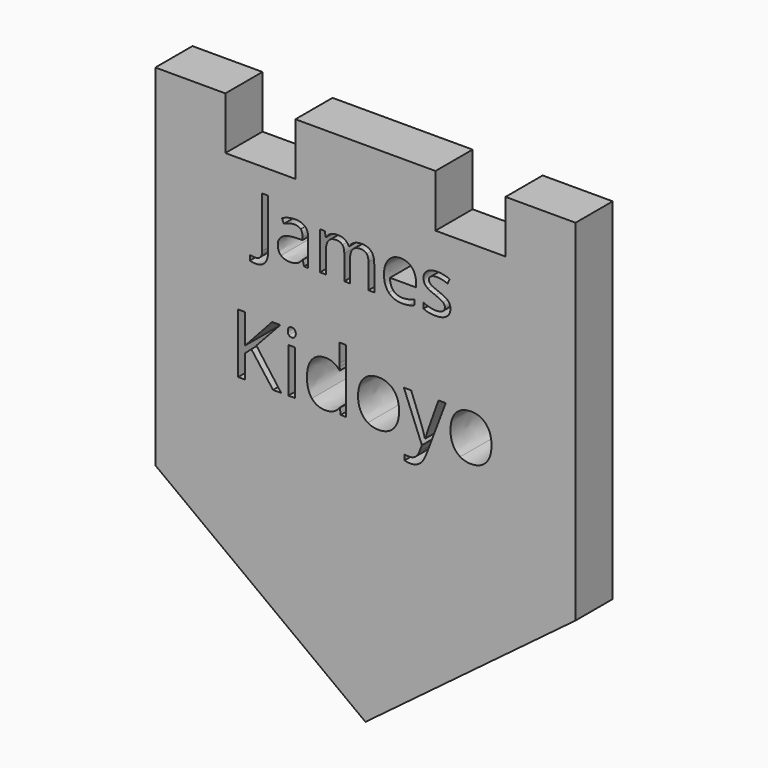
from build123d import *

# Parameters (mm, degrees)
F0_W     = 0.9811276159
F0_H     = 6.4746860971
F1_DEPTH = 6.731


with BuildPart() as f1:
    # F0 (on Front) → F1 (new body)
    with BuildSketch(Plane.XZ):
        Polygon((10.16, 50.8), (0, 50.8), (-10.16, 50.8), (-10.16, 43.18), (-20.32, 43.18), (-20.32, 50.8), (-30.48, 50.8), (-30.48, 0), (0, -22.86), (30.48, 0), (30.48, 50.8), (20.32, 50.8), (20.32, 43.18), (10.16, 43.18), align=None)
        Polygon((-15.8237755568, 20.0595629722), (-12.220636374, 15.174719505), (-13.4021484355, 15.174719505), (-16.5496965674, 19.3638886703), (-17.4552074113, 18.5604604685), (-17.4552074113, 15.174719505), (-18.4590200588, 15.174719505), (-18.4590200588, 23.8120452796), (-17.4552074113, 23.8120452796), (-17.4552074113, 19.5283551493), (-13.538258625, 23.8120452796), (-12.3510753056, 23.8120452796), align=None, mode=Mode.SUBTRACT)
        with Locations((-10.6903419519, 18.4120625536)):
            Rectangle(F0_W, F0_H, mode=Mode.SUBTRACT)
        with BuildLine():
            Line((-3.5833105994, 15.174719505), (-3.713749531, 16.042421963))
            Line((-3.713749531, 16.042421963), (-3.7666812714, 16.042421963))
            add(Edge.make_bspline(
                [(-3.7666812714, 16.042421963), (-4.4453417995, 15.0556230892), (-5.7988820172, 15.0556230892)],
                knots=[0, 0, 0, 1, 1, 1], degree=2))
            add(Edge.make_bspline(
                [(-5.7988820172, 15.0556230892), (-7.0692437857, 15.0556230892), (-7.7753153937, 15.9242707568)],
                knots=[0, 0, 0, 1, 1, 1], degree=2))
            add(Edge.make_bspline(
                [(-7.7753153937, 15.9242707568), (-8.4813870017, 16.7929184245), (-8.4813870017, 18.3941035702)],
                knots=[0, 0, 0, 1, 1, 1], degree=2))
            add(Edge.make_bspline(
                [(-8.4813870017, 18.3941035702), (-8.4813870017, 19.995288716), (-7.7724797648, 20.881895367)],
                knots=[0, 0, 0, 1, 1, 1], degree=2))
            add(Edge.make_bspline(
                [(-7.7724797648, 20.881895367), (-7.0635725278, 21.7685020179), (-5.7988820172, 21.7685020179)],
                knots=[0, 0, 0, 1, 1, 1], degree=2))
            add(Edge.make_bspline(
                [(-5.7988820172, 21.7685020179), (-4.4812597662, 21.7685020179), (-3.7780237872, 20.8100594336)],
                knots=[0, 0, 0, 1, 1, 1], degree=2))
            Line((-3.7780237872, 20.8100594336), (-3.7005165959, 20.8100594336))
            Line((-3.7005165959, 20.8100594336), (-3.7421058205, 21.2769930004))
            Line((-3.7421058205, 21.2769930004), (-3.7666812714, 21.7325840513))
            Line((-3.7666812714, 21.7325840513), (-3.7666812714, 24.3678285533))
            Line((-3.7666812714, 24.3678285533), (-2.7855536555, 24.3678285533))
            Line((-2.7855536555, 24.3678285533), (-2.7855536555, 15.174719505))
            Line((-2.7855536555, 15.174719505), (-3.5833105994, 15.174719505))
        make_face(mode=Mode.SUBTRACT)
        with BuildLine():
            add(Edge.make_bspline(
                [(-11.0986725203, 22.9103152742), (-11.264084209, 23.0728913339), (-11.264084209, 23.4037147111)],
                knots=[0, 0, 0, 1, 1, 1], degree=2))
            add(Edge.make_bspline(
                [(-11.264084209, 23.4037147111), (-11.264084209, 23.7402093462), (-11.0986725203, 23.897114148)],
                knots=[0, 0, 0, 1, 1, 1], degree=2))
            add(Edge.make_bspline(
                [(-11.0986725203, 23.897114148), (-10.9332608317, 24.0540189498), (-10.6837254843, 24.0540189498)],
                knots=[0, 0, 0, 1, 1, 1], degree=2))
            add(Edge.make_bspline(
                [(-10.6837254843, 24.0540189498), (-10.447423072, 24.0540189498), (-10.2763401255, 23.894278519)],
                knots=[0, 0, 0, 1, 1, 1], degree=2))
            add(Edge.make_bspline(
                [(-10.2763401255, 23.894278519), (-10.105257179, 23.7345380883), (-10.105257179, 23.4037147111)],
                knots=[0, 0, 0, 1, 1, 1], degree=2))
            add(Edge.make_bspline(
                [(-10.105257179, 23.4037147111), (-10.105257179, 23.0728913339), (-10.2763401255, 22.9103152742)],
                knots=[0, 0, 0, 1, 1, 1], degree=2))
            add(Edge.make_bspline(
                [(-10.2763401255, 22.9103152742), (-10.447423072, 22.7477392145), (-10.6837254843, 22.7477392145)],
                knots=[0, 0, 0, 1, 1, 1], degree=2))
            add(Edge.make_bspline(
                [(-10.6837254843, 22.7477392145), (-10.9332608317, 22.7477392145), (-11.0986725203, 22.9103152742)],
                knots=[0, 0, 0, 1, 1, 1], degree=2))
        make_face(mode=Mode.SUBTRACT)
        with BuildLine():
            add(Edge.make_bspline(
                [(-14.6120612553, 31.0013102389), (-15.0947213624, 30.4760151557), (-16.0005134967, 30.4760151557)],
                knots=[0, 0, 0, 1, 1, 1], degree=2))
            add(Edge.make_bspline(
                [(-16.0005134967, 30.4760151557), (-16.4719115346, 30.4760151557), (-16.7438100616, 30.6111599857)],
                knots=[0, 0, 0, 1, 1, 1], degree=2))
            Line((-16.7438100616, 30.6111599857), (-16.7438100616, 31.3399767474))
            add(Edge.make_bspline(
                [(-16.7438100616, 31.3399767474), (-16.3866415824, 31.2402269919), (-16.0005134967, 31.2402269919)],
                knots=[0, 0, 0, 1, 1, 1], degree=2))
            add(Edge.make_bspline(
                [(-16.0005134967, 31.2402269919), (-15.5017647194, 31.2402269919), (-15.2427371286, 31.5418895589)],
                knots=[0, 0, 0, 1, 1, 1], degree=2))
            add(Edge.make_bspline(
                [(-15.2427371286, 31.5418895589), (-14.9837095378, 31.8435521258), (-14.9837095378, 32.4114821851)],
                knots=[0, 0, 0, 1, 1, 1], degree=2))
            Line((-14.9837095378, 32.4114821851), (-14.9837095378, 39.762395616))
            Line((-14.9837095378, 39.762395616), (-14.1294011482, 39.762395616))
            Line((-14.1294011482, 39.762395616), (-14.1294011482, 32.4822723342))
            add(Edge.make_bspline(
                [(-14.1294011482, 32.4822723342), (-14.1294011482, 31.5266053221), (-14.6120612553, 31.0013102389)],
                knots=[0, 0, 0, 1, 1, 1], degree=2))
        make_face(mode=Mode.SUBTRACT)
        with BuildLine():
            Line((-8.2972581877, 32.4114821851), (-8.9166719918, 32.4114821851))
            Line((-8.9166719918, 32.4114821851), (-9.0823852952, 33.1966092926))
            Line((-9.0823852952, 33.1966092926), (-9.1226069708, 33.1966092926))
            add(Edge.make_bspline(
                [(-9.1226069708, 33.1966092926), (-9.5344769288, 32.678554111), (-9.9439335863, 32.4943388368)],
                knots=[0, 0, 0, 1, 1, 1], degree=2))
            add(Edge.make_bspline(
                [(-9.9439335863, 32.4943388368), (-10.3533902438, 32.3101235626), (-10.9679774469, 32.3101235626)],
                knots=[0, 0, 0, 1, 1, 1], degree=2))
            add(Edge.make_bspline(
                [(-10.9679774469, 32.3101235626), (-11.7868907619, 32.3101235626), (-12.2518533317, 32.7332555898)],
                knots=[0, 0, 0, 1, 1, 1], degree=2))
            add(Edge.make_bspline(
                [(-12.2518533317, 32.7332555898), (-12.7168159015, 33.1563876171), (-12.7168159015, 33.9350792565)],
                knots=[0, 0, 0, 1, 1, 1], degree=2))
            add(Edge.make_bspline(
                [(-12.7168159015, 33.9350792565), (-12.7168159015, 35.60347436), (-10.0477055094, 35.6839177111)],
                knots=[0, 0, 0, 1, 1, 1], degree=2))
            Line((-10.0477055094, 35.6839177111), (-9.1129537686, 35.7144861846))
            Line((-9.1129537686, 35.7144861846), (-9.1129537686, 36.0571748606))
            add(Edge.make_bspline(
                [(-9.1129537686, 36.0571748606), (-9.1129537686, 36.7055482711), (-9.3912877637, 37.0144507397)],
                knots=[0, 0, 0, 1, 1, 1], degree=2))
            add(Edge.make_bspline(
                [(-9.3912877637, 37.0144507397), (-9.6696217588, 37.3233532082), (-10.2842089618, 37.3233532082)],
                knots=[0, 0, 0, 1, 1, 1], degree=2))
            add(Edge.make_bspline(
                [(-10.2842089618, 37.3233532082), (-10.9728040479, 37.3233532082), (-11.8415922407, 36.901830048)],
                knots=[0, 0, 0, 1, 1, 1], degree=2))
            Line((-11.8415922407, 36.901830048), (-12.0990109644, 37.5405502564))
            add(Edge.make_bspline(
                [(-12.0990109644, 37.5405502564), (-11.6919676075, 37.7609650386), (-11.2068941999, 37.8864566665)],
                knots=[0, 0, 0, 1, 1, 1], degree=2))
            add(Edge.make_bspline(
                [(-11.2068941999, 37.8864566665), (-10.7218207922, 38.0119482943), (-10.2327252171, 38.0119482943)],
                knots=[0, 0, 0, 1, 1, 1], degree=2))
            add(Edge.make_bspline(
                [(-10.2327252171, 38.0119482943), (-9.2480985986, 38.0119482943), (-8.7726783931, 37.5751408974)],
                knots=[0, 0, 0, 1, 1, 1], degree=2))
            add(Edge.make_bspline(
                [(-8.7726783931, 37.5751408974), (-8.2972581877, 37.1383335005), (-8.2972581877, 36.1730132863)],
                knots=[0, 0, 0, 1, 1, 1], degree=2))
            Line((-8.2972581877, 36.1730132863), (-8.2972581877, 32.4114821851))
        make_face(mode=Mode.SUBTRACT)
        with BuildLine():
            Line((1.2787183368, 32.4114821851), (0.4453252186, 32.4114821851))
            Line((0.4453252186, 32.4114821851), (0.4453252186, 35.9960379137))
            add(Edge.make_bspline(
                [(0.4453252186, 35.9960379137), (0.4453252186, 36.6556733934), (0.1637734895, 36.9846866997)],
                knots=[0, 0, 0, 1, 1, 1], degree=2))
            add(Edge.make_bspline(
                [(0.1637734895, 36.9846866997), (-0.1177782397, 37.3137000061), (-0.7114501714, 37.3137000061)],
                knots=[0, 0, 0, 1, 1, 1], degree=2))
            add(Edge.make_bspline(
                [(-0.7114501714, 37.3137000061), (-1.4901418108, 37.3137000061), (-1.8625945268, 36.8664349735)],
                knots=[0, 0, 0, 1, 1, 1], degree=2))
            add(Edge.make_bspline(
                [(-1.8625945268, 36.8664349735), (-2.2350472427, 36.4191699409), (-2.2350472427, 35.4892448013)],
                knots=[0, 0, 0, 1, 1, 1], degree=2))
            Line((-2.2350472427, 35.4892448013), (-2.2350472427, 32.4114821851))
            Line((-2.2350472427, 32.4114821851), (-3.070049228, 32.4114821851))
            Line((-3.070049228, 32.4114821851), (-3.070049228, 35.9960379137))
            add(Edge.make_bspline(
                [(-3.070049228, 35.9960379137), (-3.070049228, 36.6556733934), (-3.3516009571, 36.9846866997)],
                knots=[0, 0, 0, 1, 1, 1], degree=2))
            add(Edge.make_bspline(
                [(-3.3516009571, 36.9846866997), (-3.6331526862, 37.3137000061), (-4.231651219, 37.3137000061)],
                knots=[0, 0, 0, 1, 1, 1], degree=2))
            add(Edge.make_bspline(
                [(-4.231651219, 37.3137000061), (-5.0151694595, 37.3137000061), (-5.3795778404, 36.8439108352)],
                knots=[0, 0, 0, 1, 1, 1], degree=2))
            add(Edge.make_bspline(
                [(-5.3795778404, 36.8439108352), (-5.7439862212, 36.3741216643), (-5.7439862212, 35.3026162265)],
                knots=[0, 0, 0, 1, 1, 1], degree=2))
            Line((-5.7439862212, 35.3026162265), (-5.7439862212, 32.4114821851))
            Line((-5.7439862212, 32.4114821851), (-6.5789882065, 32.4114821851))
            Line((-6.5789882065, 32.4114821851), (-6.5789882065, 37.921851741))
            Line((-6.5789882065, 37.921851741), (-5.9000463225, 37.921851741))
            Line((-5.9000463225, 37.921851741), (-5.7649014925, 37.1672931069))
            Line((-5.7649014925, 37.1672931069), (-5.7246798169, 37.1672931069))
            add(Edge.make_bspline(
                [(-5.7246798169, 37.1672931069), (-5.4881763645, 37.5695098628), (-5.0578044356, 37.7963601131)],
                knots=[0, 0, 0, 1, 1, 1], degree=2))
            add(Edge.make_bspline(
                [(-5.0578044356, 37.7963601131), (-4.6274325068, 38.0232103635), (-4.094897522, 38.0232103635)],
                knots=[0, 0, 0, 1, 1, 1], degree=2))
            add(Edge.make_bspline(
                [(-4.094897522, 38.0232103635), (-2.8029773021, 38.0232103635), (-2.4055871472, 37.0868497557)],
                knots=[0, 0, 0, 1, 1, 1], degree=2))
            Line((-2.4055871472, 37.0868497557), (-2.3653654716, 37.0868497557))
            add(Edge.make_bspline(
                [(-2.3653654716, 37.0868497557), (-2.119208817, 37.5196349851), (-1.6518329467, 37.7714226743)],
                knots=[0, 0, 0, 1, 1, 1], degree=2))
            add(Edge.make_bspline(
                [(-1.6518329467, 37.7714226743), (-1.1844570763, 38.0232103635), (-0.5859585435, 38.0232103635)],
                knots=[0, 0, 0, 1, 1, 1], degree=2))
            add(Edge.make_bspline(
                [(-0.5859585435, 38.0232103635), (0.3487931972, 38.0232103635), (0.813755767, 37.5429635569)],
                knots=[0, 0, 0, 1, 1, 1], degree=2))
            add(Edge.make_bspline(
                [(0.813755767, 37.5429635569), (1.2787183368, 37.0627167504), (1.2787183368, 36.0056911159)],
                knots=[0, 0, 0, 1, 1, 1], degree=2))
            Line((1.2787183368, 36.0056911159), (1.2787183368, 32.4114821851))
        make_face(mode=Mode.SUBTRACT)
        with BuildLine():
            add(Edge.make_bspline(
                [(4.0813944461, 20.8639363836), (4.881987019, 19.9593707493), (4.881987019, 18.4186790211)],
                knots=[0, 0, 0, 1, 1, 1], degree=2))
            add(Edge.make_bspline(
                [(4.881987019, 18.4186790211), (4.881987019, 16.834507649), (4.0851752847, 15.9450653691)],
                knots=[0, 0, 0, 1, 1, 1], degree=2))
            add(Edge.make_bspline(
                [(4.0851752847, 15.9450653691), (3.2883635504, 15.0556230892), (1.8818915923, 15.0556230892)],
                knots=[0, 0, 0, 1, 1, 1], degree=2))
            add(Edge.make_bspline(
                [(1.8818915923, 15.0556230892), (1.0122987151, 15.0556230892), (0.3393094448, 15.4639536577)],
                knots=[0, 0, 0, 1, 1, 1], degree=2))
            add(Edge.make_bspline(
                [(0.3393094448, 15.4639536577), (-0.3336798254, 15.8722842261), (-0.7004211693, 16.6341232034)],
                knots=[0, 0, 0, 1, 1, 1], degree=2))
            add(Edge.make_bspline(
                [(-0.7004211693, 16.6341232034), (-1.0671625132, 17.3959621807), (-1.0671625132, 18.4186790211)],
                knots=[0, 0, 0, 1, 1, 1], degree=2))
            add(Edge.make_bspline(
                [(-1.0671625132, 18.4186790211), (-1.0671625132, 20.0009599739), (-0.2750768272, 20.8847309959)],
                knots=[0, 0, 0, 1, 1, 1], degree=2))
            add(Edge.make_bspline(
                [(-0.2750768272, 20.8847309959), (0.5170088589, 21.7685020179), (1.9234808169, 21.7685020179)],
                knots=[0, 0, 0, 1, 1, 1], degree=2))
            add(Edge.make_bspline(
                [(1.9234808169, 21.7685020179), (3.2808018732, 21.7685020179), (4.0813944461, 20.8639363836)],
                knots=[0, 0, 0, 1, 1, 1], degree=2))
        make_face(mode=Mode.SUBTRACT)
        with BuildLine():
            Line((8.1864399526, 15.1388015383), (5.5738804822, 21.6494056021))
            Line((5.5738804822, 21.6494056021), (6.6268440314, 21.6494056021))
            Line((6.6268440314, 21.6494056021), (8.0446585052, 17.9574167123))
            add(Edge.make_bspline(
                [(8.0446585052, 17.9574167123), (8.5097016527, 16.6927262017), (8.6231268106, 16.13127167)],
                knots=[0, 0, 0, 1, 1, 1], degree=2))
            Line((8.6231268106, 16.13127167), (8.670387293, 16.13127167))
            add(Edge.make_bspline(
                [(8.670387293, 16.13127167), (8.746004065, 16.4337387578), (8.9917585738, 17.163440607)],
                knots=[0, 0, 0, 1, 1, 1], degree=2))
            add(Edge.make_bspline(
                [(8.9917585738, 17.163440607), (9.2375130826, 17.8931424562), (10.5967245581, 21.6494056021)],
                knots=[0, 0, 0, 1, 1, 1], degree=2))
            Line((10.5967245581, 21.6494056021), (11.6477976881, 21.6494056021))
            Line((11.6477976881, 21.6494056021), (8.8651004808, 14.2767703383))
            add(Edge.make_bspline(
                [(8.8651004808, 14.2767703383), (8.4510986544, 13.1841079838), (7.8990962193, 12.7256813039)],
                knots=[0, 0, 0, 1, 1, 1], degree=2))
            add(Edge.make_bspline(
                [(7.8990962193, 12.7256813039), (7.3470937841, 12.267254624), (6.5436655823, 12.267254624)],
                knots=[0, 0, 0, 1, 1, 1], degree=2))
            add(Edge.make_bspline(
                [(6.5436655823, 12.267254624), (6.0937457893, 12.267254624), (5.6570589313, 12.3693372661)],
                knots=[0, 0, 0, 1, 1, 1], degree=2))
            Line((5.6570589313, 12.3693372661), (5.6570589313, 13.153861275))
            add(Edge.make_bspline(
                [(5.6570589313, 13.153861275), (5.9822110507, 13.0839157609), (6.3829799419, 13.0839157609)],
                knots=[0, 0, 0, 1, 1, 1], degree=2))
            add(Edge.make_bspline(
                [(6.3829799419, 13.0839157609), (7.3943542666, 13.0839157609), (7.8253698666, 14.21816734)],
                knots=[0, 0, 0, 1, 1, 1], degree=2))
            Line((7.8253698666, 14.21816734), (8.1864399526, 15.1388015383))
        make_face(mode=Mode.SUBTRACT)
        with BuildLine():
            add(Edge.make_bspline(
                [(17.4863576913, 20.8639363836), (18.2869502642, 19.9593707493), (18.2869502642, 18.4186790211)],
                knots=[0, 0, 0, 1, 1, 1], degree=2))
            add(Edge.make_bspline(
                [(18.2869502642, 18.4186790211), (18.2869502642, 16.834507649), (17.4901385299, 15.9450653691)],
                knots=[0, 0, 0, 1, 1, 1], degree=2))
            add(Edge.make_bspline(
                [(17.4901385299, 15.9450653691), (16.6933267956, 15.0556230892), (15.2868548375, 15.0556230892)],
                knots=[0, 0, 0, 1, 1, 1], degree=2))
            add(Edge.make_bspline(
                [(15.2868548375, 15.0556230892), (14.4172619603, 15.0556230892), (13.74427269, 15.4639536577)],
                knots=[0, 0, 0, 1, 1, 1], degree=2))
            add(Edge.make_bspline(
                [(13.74427269, 15.4639536577), (13.0712834198, 15.8722842261), (12.7045420759, 16.6341232034)],
                knots=[0, 0, 0, 1, 1, 1], degree=2))
            add(Edge.make_bspline(
                [(12.7045420759, 16.6341232034), (12.337800732, 17.3959621807), (12.337800732, 18.4186790211)],
                knots=[0, 0, 0, 1, 1, 1], degree=2))
            add(Edge.make_bspline(
                [(12.337800732, 18.4186790211), (12.337800732, 20.0009599739), (13.129886418, 20.8847309959)],
                knots=[0, 0, 0, 1, 1, 1], degree=2))
            add(Edge.make_bspline(
                [(13.129886418, 20.8847309959), (13.9219721041, 21.7685020179), (15.3284440621, 21.7685020179)],
                knots=[0, 0, 0, 1, 1, 1], degree=2))
            add(Edge.make_bspline(
                [(15.3284440621, 21.7685020179), (16.6857651184, 21.7685020179), (17.4863576913, 20.8639363836)],
                knots=[0, 0, 0, 1, 1, 1], degree=2))
        make_face(mode=Mode.SUBTRACT)
        with BuildLine():
            add(Edge.make_bspline(
                [(6.2790770462, 32.3937846479), (5.8849046254, 32.3101235626), (5.3266277682, 32.3101235626)],
                knots=[0, 0, 0, 1, 1, 1], degree=2))
            add(Edge.make_bspline(
                [(5.3266277682, 32.3101235626), (4.1054976973, 32.3101235626), (3.3984006404, 33.0550289946)],
                knots=[0, 0, 0, 1, 1, 1], degree=2))
            add(Edge.make_bspline(
                [(3.3984006404, 33.0550289946), (2.6913035836, 33.7999344265), (2.6913035836, 35.1208142529)],
                knots=[0, 0, 0, 1, 1, 1], degree=2))
            add(Edge.make_bspline(
                [(2.6913035836, 35.1208142529), (2.6913035836, 36.4545650154), (3.3477213292, 37.2388876895)],
                knots=[0, 0, 0, 1, 1, 1], degree=2))
            add(Edge.make_bspline(
                [(3.3477213292, 37.2388876895), (4.0041390748, 38.0232103635), (5.1110395871, 38.0232103635)],
                knots=[0, 0, 0, 1, 1, 1], degree=2))
            add(Edge.make_bspline(
                [(5.1110395871, 38.0232103635), (6.1455410832, 38.0232103635), (6.7488662171, 37.341855179)],
                knots=[0, 0, 0, 1, 1, 1], degree=2))
            add(Edge.make_bspline(
                [(6.7488662171, 37.341855179), (7.3521913509, 36.6604999945), (7.3521913509, 35.5439462801)],
                knots=[0, 0, 0, 1, 1, 1], degree=2))
            Line((7.3521913509, 35.5439462801), (7.3521913509, 35.0162378963))
            Line((7.3521913509, 35.0162378963), (3.5568740423, 35.0162378963))
            add(Edge.make_bspline(
                [(3.5568740423, 35.0162378963), (3.5826159146, 34.0460910811), (4.0475784845, 33.5433201362)],
                knots=[0, 0, 0, 1, 1, 1], degree=2))
            add(Edge.make_bspline(
                [(4.0475784845, 33.5433201362), (4.5125410543, 33.0405491914), (5.3571962417, 33.0405491914)],
                knots=[0, 0, 0, 1, 1, 1], degree=2))
            add(Edge.make_bspline(
                [(5.3571962417, 33.0405491914), (6.2468997057, 33.0405491914), (7.1156878985, 33.4121974738)],
                knots=[0, 0, 0, 1, 1, 1], degree=2))
            Line((7.1156878985, 33.4121974738), (7.1156878985, 32.6672920419))
            add(Edge.make_bspline(
                [(7.1156878985, 32.6672920419), (6.673249467, 32.4774457331), (6.2790770462, 32.3937846479)],
                knots=[0, 0, 0, 1, 1, 1], degree=2))
        make_face(mode=Mode.SUBTRACT)
        with BuildLine():
            add(Edge.make_bspline(
                [(11.9857283789, 34.8247827205), (12.330025922, 34.4627876402), (12.330025922, 33.9141639852)],
                knots=[0, 0, 0, 1, 1, 1], degree=2))
            add(Edge.make_bspline(
                [(12.330025922, 33.9141639852), (12.330025922, 33.1451255479), (11.7572692616, 32.7276245553)],
                knots=[0, 0, 0, 1, 1, 1], degree=2))
            add(Edge.make_bspline(
                [(11.7572692616, 32.7276245553), (11.1845126012, 32.3101235626), (10.148402238, 32.3101235626)],
                knots=[0, 0, 0, 1, 1, 1], degree=2))
            add(Edge.make_bspline(
                [(10.148402238, 32.3101235626), (9.0527637949, 32.3101235626), (8.4397854589, 32.6576388397)],
                knots=[0, 0, 0, 1, 1, 1], degree=2))
            Line((8.4397854589, 32.6576388397), (8.4397854589, 33.4315038781))
            add(Edge.make_bspline(
                [(8.4397854589, 33.4315038781), (8.8371756137, 33.2303955001), (9.2916805479, 33.115361508)],
                knots=[0, 0, 0, 1, 1, 1], degree=2))
            add(Edge.make_bspline(
                [(9.2916805479, 33.115361508), (9.7461854821, 33.0003275158), (10.1693175093, 33.0003275158)],
                knots=[0, 0, 0, 1, 1, 1], degree=2))
            add(Edge.make_bspline(
                [(10.1693175093, 33.0003275158), (10.8225175209, 33.0003275158), (11.1740549655, 33.2086757953)],
                knots=[0, 0, 0, 1, 1, 1], degree=2))
            add(Edge.make_bspline(
                [(11.1740549655, 33.2086757953), (11.5255924102, 33.4170240749), (11.5255924102, 33.8449827032)],
                knots=[0, 0, 0, 1, 1, 1], degree=2))
            add(Edge.make_bspline(
                [(11.5255924102, 33.8449827032), (11.5255924102, 34.1667561079), (11.2472584151, 34.3952152252)],
                knots=[0, 0, 0, 1, 1, 1], degree=2))
            add(Edge.make_bspline(
                [(11.2472584151, 34.3952152252), (10.96892442, 34.6236743426), (10.1580554401, 34.9357945452)],
                knots=[0, 0, 0, 1, 1, 1], degree=2))
            add(Edge.make_bspline(
                [(10.1580554401, 34.9357945452), (9.3890170028, 35.2221728754), (9.0648302976, 35.4361521895)],
                knots=[0, 0, 0, 1, 1, 1], degree=2))
            add(Edge.make_bspline(
                [(9.0648302976, 35.4361521895), (8.7406435923, 35.6501315036), (8.5821701905, 35.9212255971)],
                knots=[0, 0, 0, 1, 1, 1], degree=2))
            add(Edge.make_bspline(
                [(8.5821701905, 35.9212255971), (8.4236967887, 36.1923196906), (8.4236967887, 36.5687945741)],
                knots=[0, 0, 0, 1, 1, 1], degree=2))
            add(Edge.make_bspline(
                [(8.4236967887, 36.5687945741), (8.4236967887, 37.242909857), (8.9723204437, 37.6330601102)],
                knots=[0, 0, 0, 1, 1, 1], degree=2))
            add(Edge.make_bspline(
                [(8.9723204437, 37.6330601102), (9.5209440988, 38.0232103635), (10.4750022438, 38.0232103635)],
                knots=[0, 0, 0, 1, 1, 1], degree=2))
            add(Edge.make_bspline(
                [(10.4750022438, 38.0232103635), (11.3647057078, 38.0232103635), (12.2157963633, 37.6612152832)],
                knots=[0, 0, 0, 1, 1, 1], degree=2))
            Line((12.2157963633, 37.6612152832), (11.9181559639, 36.9822733992))
            add(Edge.make_bspline(
                [(11.9181559639, 36.9822733992), (11.0895894468, 37.3233532082), (10.4154741639, 37.3233532082)],
                knots=[0, 0, 0, 1, 1, 1], degree=2))
            add(Edge.make_bspline(
                [(10.4154741639, 37.3233532082), (9.8218022322, 37.3233532082), (9.5201396653, 37.137529067)],
                knots=[0, 0, 0, 1, 1, 1], degree=2))
            add(Edge.make_bspline(
                [(9.5201396653, 37.137529067), (9.2184770983, 36.9517049257), (9.2184770983, 36.6251049199)],
                knots=[0, 0, 0, 1, 1, 1], degree=2))
            add(Edge.make_bspline(
                [(9.2184770983, 36.6251049199), (9.2184770983, 36.4030812707), (9.3319022235, 36.2478256029)],
                knots=[0, 0, 0, 1, 1, 1], degree=2))
            add(Edge.make_bspline(
                [(9.3319022235, 36.2478256029), (9.4453273487, 36.0925699351), (9.6963106043, 35.9517940706)],
                knots=[0, 0, 0, 1, 1, 1], degree=2))
            add(Edge.make_bspline(
                [(9.6963106043, 35.9517940706), (9.94729386, 35.811018206), (10.6616308185, 35.5439462801)],
                knots=[0, 0, 0, 1, 1, 1], degree=2))
            add(Edge.make_bspline(
                [(10.6616308185, 35.5439462801), (11.6414308359, 35.1867778008), (11.9857283789, 34.8247827205)],
                knots=[0, 0, 0, 1, 1, 1], degree=2))
        make_face(mode=Mode.SUBTRACT)
    extrude(amount=F1_DEPTH)


solid = f1.part
